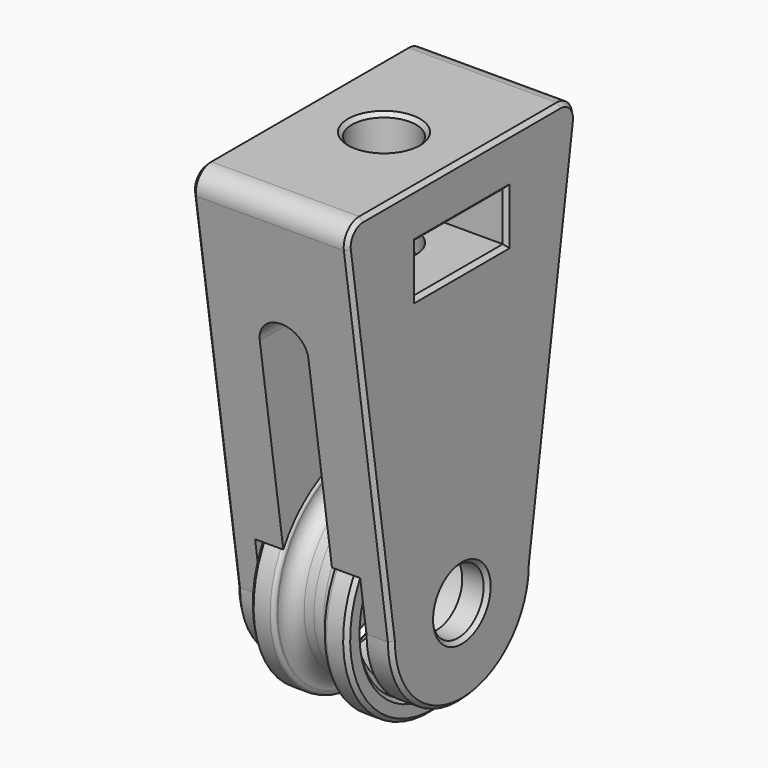
from build123d import *

# Parameters (mm, degrees)
SKETCH002_R          = 3.3
PAD_DEPTH            = 8
POCKET_DEPTH         = 15.001
POCKET_DEPTH_BACK    = -15.001
SKETCH003_R          = 11.2
POCKET001_DEPTH      = 5.4
SKETCH004_R          = 3.3
POCKET002_DEPTH      = 20
SKETCH005_W          = 11.5
SKETCH005_H          = 5
POCKET003_DEPTH      = 8.001
POCKET003_DEPTH_BACK = -8.001
FILLET_R             = 2
CHAMFER_SIZE         = 0.4


with BuildPart() as obj1:
    # Sketch → Revolution (revolve)
    with BuildSketch(Plane.XZ):
        with BuildLine():
            Line((0, 8), (-3.5, 8))
            Line((-3.5, 8), (-3.5, 9))
            Line((-3.5, 9), (-4.6, 9))
            Line((-5, 9.4), (-4.6, 9))
            Line((-5, 9.4), (-5, 10.6))
            Line((-4.6, 11), (-5, 10.6))
            Line((-4.6, 11), (-2.9, 11))
            ThreePointArc((-2.5, 10.6), (-2.617157, 10.882843), (-2.9, 11))
            Line((-2.5, 10.6), (-2.5, 10.5))
            ThreePointArc((-2.5, 10.5), (-2.06066, 9.43934), (-1, 9))
            Line((0, 9), (-1, 9))
            Line((0, 9), (0, 8))
        make_face()
    revolution = revolve(axis=Axis((0, 0, 0), (1, 0, 0)))

    # Mirrored: Revolution across Sketch V_Axis
    add(revolution.mirror(Plane(origin=(0, 0, 0), x_dir=(0, -1, 0), z_dir=(1, 0, 0))))


with BuildPart() as bracket:
    # Sketch002 → Pad (new body, symmetric)
    with BuildSketch(Plane.YZ):
        with BuildLine():
            Line((-9, 0), (-15, 40))
            Line((-15, 40), (15, 40))
            Line((15, 40), (9, 0))
            ThreePointArc((-9, 0), (0, -9), (9, 0))
        make_face()
        Circle(SKETCH002_R, mode=Mode.SUBTRACT)
    extrude(amount=PAD_DEPTH, both=True)

    # Sketch001 → Pocket (cut, two sides)
    with BuildSketch(Plane.XZ) as pocket_sk:
        with BuildLine():
            Line((-2.5, 25.55), (-2.5, -12))
            Line((-2.5, -12), (2.5, -12))
            Line((2.5, -12), (2.5, 25.55))
            ThreePointArc((2.5, 25.55), (1.782412, 27.282412), (0.05, 28))
            Line((0.05, 28), (-0.05, 28))
            ThreePointArc((-0.05, 28), (-1.782412, 27.282412), (-2.5, 25.55))
        make_face()
    extrude(amount=-POCKET_DEPTH, mode=Mode.SUBTRACT)
    extrude(pocket_sk.sketch, amount=-POCKET_DEPTH_BACK, mode=Mode.SUBTRACT)

    # Sketch003 → Pocket001 (cut, symmetric)
    with BuildSketch(Plane.YZ):
        Circle(SKETCH003_R)
    extrude(amount=POCKET001_DEPTH, both=True, mode=Mode.SUBTRACT)

    # Sketch004 (on Face3 of Pocket001) → Pocket002 (cut)
    with BuildSketch(Plane.XY.offset(40)):
        Circle(SKETCH004_R)
    extrude(amount=-POCKET002_DEPTH, mode=Mode.SUBTRACT)

    # Sketch005 → Pocket003 (cut, two sides)
    with BuildSketch(Plane.YZ) as pocket003_sk:
        with Locations((0, 32.5)):
            Rectangle(SKETCH005_W, SKETCH005_H)
    extrude(amount=-POCKET003_DEPTH, mode=Mode.SUBTRACT)
    extrude(pocket003_sk.sketch, amount=-POCKET003_DEPTH_BACK, mode=Mode.SUBTRACT)

    # Fillet
    fillet_edges = [bracket.edges().sort_by_distance(p)[0] for p in [
        (0, -15, 40),
        (0, 15, 40),
    ]]
    fillet(fillet_edges, radius=FILLET_R)

    # Chamfer
    chamfer_edges = [bracket.edges().sort_by_distance(p)[0] for p in [
        (8, -11.827749, 18.85166),
        (8, -14.193106, 39.305113),
        (8, 0, -9),
        (8, 0, 40),
        (8, 11.827749, 18.85166),
        (8, 14.193106, 39.305113),
        (8, -3.3, 0),
        (8, -5.75, 32.5),
        (8, 0, 30),
        (8, 5.75, 32.5),
        (8, 0, 35),
        (-8, -11.827749, 18.85166),
        (-8, -14.193106, 39.305113),
        (-8, 0, -9),
        (-8, 0, 40),
        (-8, 11.827749, 18.85166),
        (-8, 14.193106, 39.305113),
        (-8, -3.3, 0),
        (-8, -5.75, 32.5),
        (-8, 0, 30),
        (-8, 5.75, 32.5),
        (-8, 0, 35),
        (-3.3, 0, 40),
    ]]
    chamfer(chamfer_edges, length=CHAMFER_SIZE)


solid = Compound([obj1.part, bracket.part])
